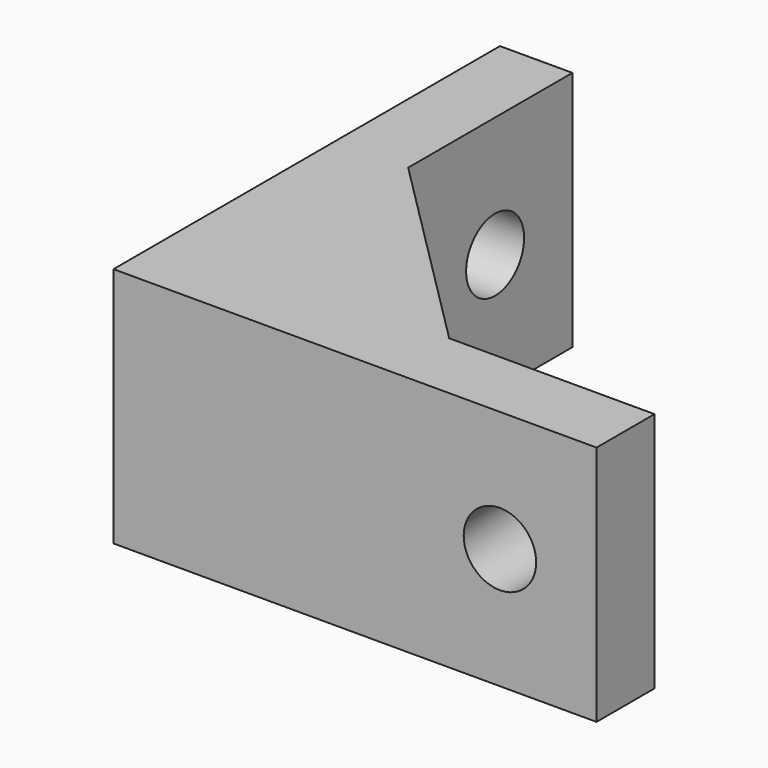
from build123d import *

# Parameters (mm, degrees)
F1_DEPTH  = 12.7
F4_DEPTH  = 2.54
F6_R      = 1.905
F7_DEPTH  = 25.4
F8_DEPTH  = 2.54
F9_R      = 1.905
F10_DEPTH = 25.4


with BuildPart() as f1:
    # F0 (on Top) → F1 (new body)
    with BuildSketch(Plane.XY):
        Polygon((0, 25.4), (0, 0), (25.4, 0), (25.4, 3.81), (3.81, 3.81), (3.81, 25.4), align=None)
    extrude(amount=F1_DEPTH)

    # F2 (on face) → F4 (join)
    with BuildSketch(Plane.XY.offset(12.7)):
        Polygon((14.605, 3.81), (3.81, 14.605), (3.81, 3.81), align=None)
    extrude(amount=-F4_DEPTH)

    # F6 (on face) → F7 (cut)
    with BuildSketch(Plane.YZ.offset(3.81)):
        with Locations((20.32, 6.35)):
            Circle(F6_R)
    extrude(amount=-F7_DEPTH, mode=Mode.SUBTRACT)

    # F5 (on face) → F8 (join)
    with BuildSketch(Plane(origin=(0, 0, 0), x_dir=(1, 0, 0), z_dir=(0, 0, -1))):
        Polygon((3.81, -14.605), (14.605, -3.81), (3.81, -3.81), align=None)
    extrude(amount=-F8_DEPTH)

    # F9 (on face) → F10 (cut)
    with BuildSketch(Plane(origin=(0, 3.81, 0), x_dir=(-1, 0, 0), z_dir=(0, 1, 0))):
        with Locations((-20.32, 6.35)):
            Circle(F9_R)
    extrude(amount=-F10_DEPTH, mode=Mode.SUBTRACT)


solid = f1.part
